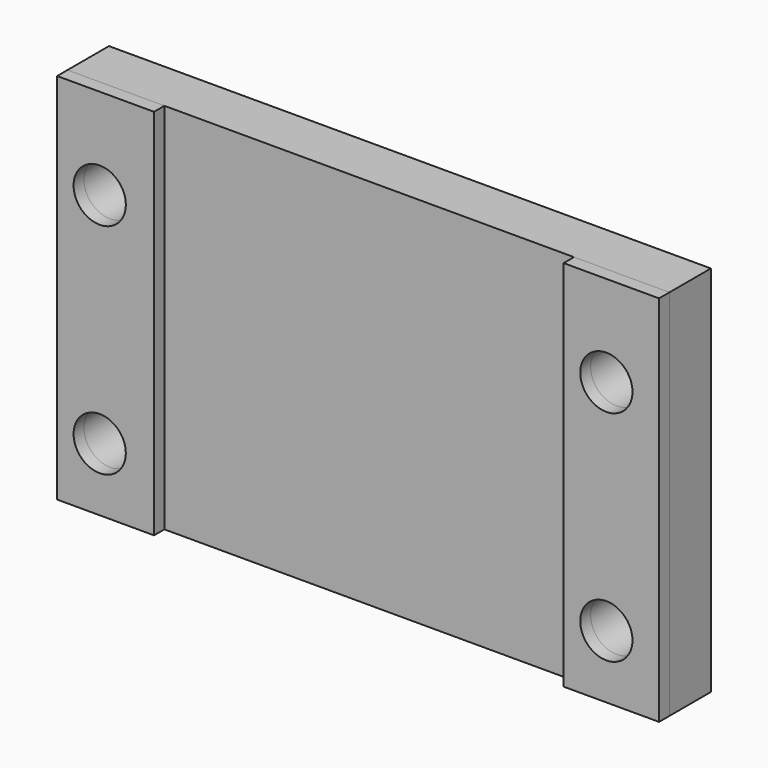
from build123d import *

# Parameters (mm, degrees)
F0_W     = 18.9951807261
F0_H     = 73.1026604772
F0_R     = 5.1181
F0_R_2   = 5.1242350944
F1_DEPTH = 12.7
F0_W_2   = 18.7073759735
F0_W_3   = 80.2978090942
F2_DEPTH = 10.16


with BuildPart() as f1:
    # F0 (on Front) → F1 (new body)
    with BuildSketch(Plane.XZ):
        with Locations((-49.5025925338, 0)):
            Rectangle(F0_W, F0_H)
        with Locations((-50.6538152695, -24.1756830364)):
            Circle(F0_R, mode=Mode.SUBTRACT)
        with Locations((-50.6538152695, 18.7107970397)):
            Circle(F0_R_2, mode=Mode.SUBTRACT)
    extrude(amount=F1_DEPTH)


with BuildPart() as f1b:
    # F0 (on Front) → F1, piece 2 (new body)
    with BuildSketch(Plane.XZ):
        with Locations((49.6464949101, 0)):
            Rectangle(F0_W_2, F0_H)
        with Locations((48.6729510283, -24.1756830364)):
            Circle(F0_R, mode=Mode.SUBTRACT)
        with Locations((48.6729510283, 18.7107970397)):
            Circle(F0_R, mode=Mode.SUBTRACT)
    extrude(amount=F1_DEPTH)


with BuildPart() as f2:
    # F0 (on Front) → F2 (new body)
    with BuildSketch(Plane.XZ):
        with Locations((49.6464949101, 0)):
            Rectangle(F0_W_2, F0_H)
        with Locations((48.6729510283, -24.1756830364)):
            Circle(F0_R, mode=Mode.SUBTRACT)
        with Locations((48.6729510283, 18.7107970397)):
            Circle(F0_R, mode=Mode.SUBTRACT)
        with Locations((0.1439023763, 0)):
            Rectangle(F0_W_3, F0_H)
        with Locations((-49.5025925338, 0)):
            Rectangle(F0_W, F0_H)
        with Locations((-50.6538152695, -24.1756830364)):
            Circle(F0_R, mode=Mode.SUBTRACT)
        with Locations((-50.6538152695, 18.7107970397)):
            Circle(F0_R_2, mode=Mode.SUBTRACT)
    extrude(amount=F2_DEPTH)


solid = Compound([f1.part, f1b.part, f2.part])
